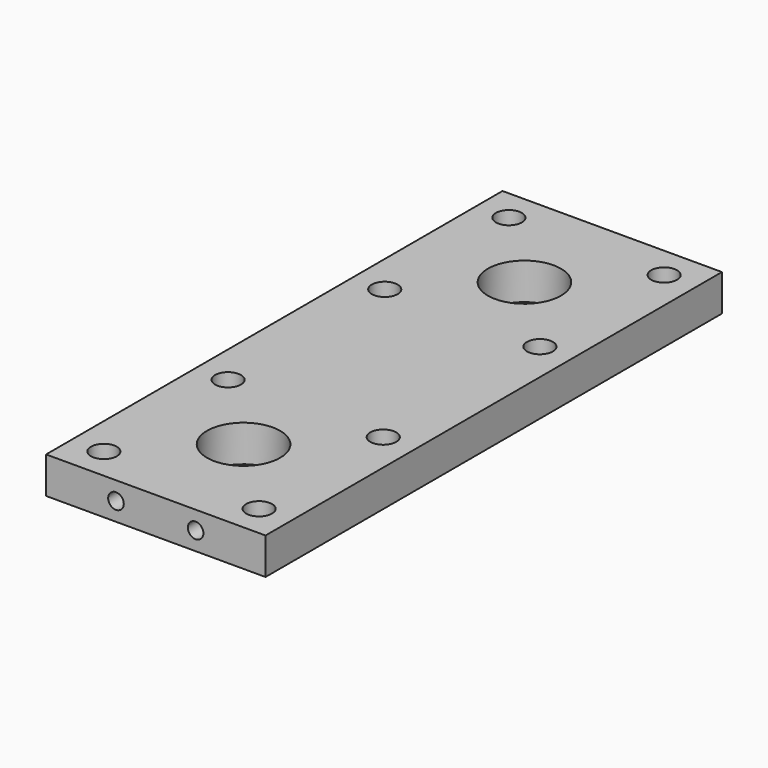
from build123d import *

# Parameters (mm, degrees)
F0_W           = 38.1
F0_H           = 38.1
F0_R           = 6.35
F0_H_2         = 22.86
F1_DEPTH       = 6.35
F2_D           = 4.4958
F5_D           = 2.7051
F5_DEPTH       = 12.54125
F5_TIP         = 0.8126940303
F5_ON_F3_D     = 2.7051
F5_ON_F3_DEPTH = 12.54125
F5_ON_F3_TIP   = 0.8126940303


with BuildPart() as f1:
    # F0 (on Top) → F1 (new body)
    with BuildSketch(Plane.XY):
        Rectangle(F0_W, F0_H)
        Circle(F0_R, mode=Mode.SUBTRACT)
        with Locations((0, -30.48)):
            Rectangle(F0_W, F0_H_2)
        with Locations((0, -60.96)):
            Rectangle(F0_W, F0_H)
        with Locations((0, -60.96)):
            Circle(F0_R, mode=Mode.SUBTRACT)
    extrude(amount=F1_DEPTH)

    # F2 (through all)
    with Locations(Plane(origin=(0, 0, 0), x_dir=(1, 0, 0), z_dir=(0, 0, -1))):
        with Locations((-13.4747, -13.4747), (13.4747, -13.4747), (13.4747, 13.4747), (-13.4747, 13.4747), (-13.4747, 47.4853), (13.4747, 47.4853), (13.4747, 74.4347), (-13.4747, 74.4347)):
            Hole(F2_D / 2)

    # F5
    with Locations(Plane(origin=(0, 19.05, 0), x_dir=(-1, 0, 0), z_dir=(0, 1, 0))):
        with Locations((-6.91388, 3.175), (6.91388, 3.175)):
            Hole(F5_D / 2, depth=F5_DEPTH)
            with Locations((0, 0, -(F5_DEPTH + F5_TIP / 2))):  # 118° drill point
                Cone(0, F5_D / 2, F5_TIP, mode=Mode.SUBTRACT)

    # F5 on F3
    with Locations(Plane.XZ.offset(80.01)):
        with Locations((6.91388, 3.175), (-6.91388, 3.175)):
            Hole(F5_ON_F3_D / 2, depth=F5_ON_F3_DEPTH)
            with Locations((0, 0, -(F5_ON_F3_DEPTH + F5_ON_F3_TIP / 2))):  # 118° drill point
                Cone(0, F5_ON_F3_D / 2, F5_ON_F3_TIP, mode=Mode.SUBTRACT)


solid = f1.part
